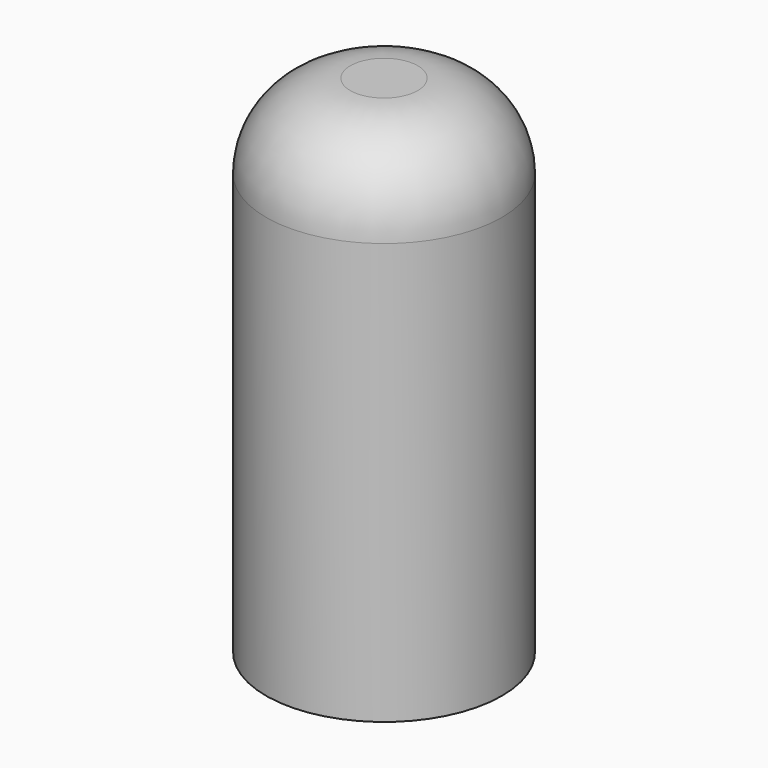
from build123d import *

# Parameters (mm, degrees)
F0_R     = 35.56
F1_DEPTH = 127
F2_DEPTH = 25.4
F3_R     = 25.4
F4_R     = 30.48
F5_DEPTH = 127


with BuildPart() as f1:
    # F0 (on Top) → F1 (new body)
    with BuildSketch(Plane.XY):
        Circle(F0_R)
    extrude(amount=F1_DEPTH)

    # F2 (add): a face of the model
    f2_faces = [f1.faces().sort_by_distance(p)[0] for p in [
        (0, 0, 127),
    ]]
    extrude(f2_faces, amount=F2_DEPTH)

    # F3
    f3_edges = [f1.edges().sort_by_distance(p)[0] for p in [
        (-35.56, 0, 152.4),
    ]]
    fillet(f3_edges, radius=F3_R)

    # F4 (on face) → F5 (cut)
    with BuildSketch(Plane(origin=(0, 0, 0), x_dir=(1, 0, 0), z_dir=(0, 0, -1))):
        Circle(F4_R)
    extrude(amount=-F5_DEPTH, mode=Mode.SUBTRACT)


solid = f1.part
